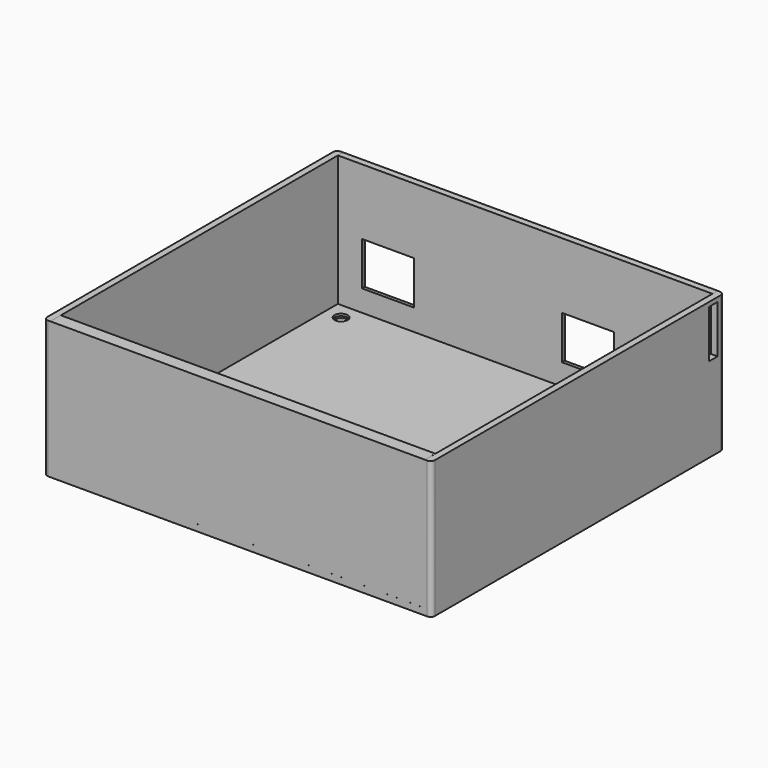
from build123d import *

# Parameters (mm, degrees)
BOX_W            = 20
BOX_H            = 2.5
BOX_DEPTH        = 11
SKETCH005_W      = 12
SKETCH005_H      = 10
EXTRUDE008_DEPTH = 1.5
SKETCH002_W      = 84.01
SKETCH002_H      = 30
EXTRUDE002_DEPTH = 1.5
FILLET001_R      = 1
FILLET003_R      = 1
SKETCH003_W      = 84.01
SKETCH003_H      = 30
EXTRUDE007_DEPTH = 1.5
FILLET005_R      = 1
SKETCH001_W      = 89
SKETCH001_H      = 84
SKETCH001_R      = 1.524
EXTRUDE001_DEPTH = 1.5
FILLET_R         = 1
FILLET002_R      = 1
FILLET004_R      = 1
FILLET006_R      = 1
EXTRUDE004_DEPTH = 3
FILLET011_R      = 1
CHAMFER_SIZE     = 1
CHAMFER001_SIZE  = 1
CHAMFER002_SIZE  = 1
CHAMFER003_SIZE  = 1
FILLET016_R      = 1
FILLET017_R      = 1


with BuildPart() as box:
    # Box → Box (new body)
    with BuildSketch(Plane(origin=(134, 92, 18), x_dir=(1, 0, 0), z_dir=(0, 0, 1))):
        with Locations((10, 1.25)):
            Rectangle(BOX_W, BOX_H)
    extrude(amount=BOX_DEPTH)


with BuildPart() as extrude008:
    # Sketch005 → Extrude008 (new body)
    with BuildSketch(Plane.XZ):
        Polygon((48.658601, 30.00186), (134.672964, 30.001823), (134.673007, -0.086485), (48.658601, -0.081194), align=None)
        with Locations((60.167907, 9.918134)):
            Rectangle(SKETCH005_W, SKETCH005_H, mode=Mode.SUBTRACT)
        with Locations((106.097198, 9.915282)):
            Rectangle(SKETCH005_W, SKETCH005_H, mode=Mode.SUBTRACT)
    extrude(amount=EXTRUDE008_DEPTH)


with BuildPart() as extrude008_1:
    # Extrude008 placement: moved
    add(extrude008.part.moved(Location((0.009309, 96.402171, 0.006059))))


with BuildPart() as fillet003:
    # Sketch002 → Extrude002 (new body)
    with BuildSketch(Plane.YZ):
        with Locations((54.387171, 15)):
            Rectangle(SKETCH002_W, SKETCH002_H)
    extrude(amount=EXTRUDE002_DEPTH)


with BuildPart() as fillet003_1:
    # Extrude002 placement: moved
    add(fillet003.part.moved(Location((47.167907, 0.01, 0))))

    # Fillet001
    fillet001_edges = [fillet003_1.edges().sort_by_distance(p)[0] for p in [
        (47.167907, 96.402171, 15),
    ]]
    fillet(fillet001_edges, radius=FILLET001_R)

    # Fillet003
    fillet003_edges = [fillet003_1.edges().sort_by_distance(p)[0] for p in [
        (47.167907, 12.392171, 15),
    ]]
    fillet(fillet003_edges, radius=FILLET003_R)


with BuildPart() as fillet005:
    # Sketch003 → Extrude007 (new body)
    with BuildSketch(Plane.YZ):
        with Locations((54.387171, 15)):
            Rectangle(SKETCH003_W, SKETCH003_H)
    extrude(amount=EXTRUDE007_DEPTH)


with BuildPart() as fillet005_1:
    # Extrude007 placement: moved
    add(fillet005.part.moved(Location((134.667907, 0.01, 0))))

    # Fillet005
    fillet005_edges = [fillet005_1.edges().sort_by_distance(p)[0] for p in [
        (136.167907, 12.392171, 15),
    ]]
    fillet(fillet005_edges, radius=FILLET005_R)


with BuildPart() as fillet006:
    # Sketch001 → Extrude001 (new body)
    with BuildSketch(Plane.XY):
        with Locations((91.667907, 54.392171)):
            Rectangle(SKETCH001_W, SKETCH001_H)
        with Locations((52.453907, 91.106708)):
            Circle(SKETCH001_R, mode=Mode.SUBTRACT)
        with Locations((130.657907, 91.102171)):
            Circle(SKETCH001_R, mode=Mode.SUBTRACT)
        with Locations((130.707907, 17.767171)):
            Circle(SKETCH001_R, mode=Mode.SUBTRACT)
        with Locations((52.453907, 17.678171)):
            Circle(SKETCH001_R, mode=Mode.SUBTRACT)
    extrude(amount=-EXTRUDE001_DEPTH)

    # Fillet
    fillet_edges = [fillet006.edges().sort_by_distance(p)[0] for p in [
        (47.167907, 96.392171, -0.75),
    ]]
    fillet(fillet_edges, radius=FILLET_R)

    # Fillet002
    fillet002_edges = [fillet006.edges().sort_by_distance(p)[0] for p in [
        (47.167907, 12.392171, -0.75),
    ]]
    fillet(fillet002_edges, radius=FILLET002_R)

    # Fillet004
    fillet004_edges = [fillet006.edges().sort_by_distance(p)[0] for p in [
        (136.167907, 12.392171, -0.75),
    ]]
    fillet(fillet004_edges, radius=FILLET004_R)

    # Fillet006
    fillet006_edges = [fillet006.edges().sort_by_distance(p)[0] for p in [
        (136.167907, 96.392171, -0.75),
    ]]
    fillet(fillet006_edges, radius=FILLET006_R)


with BuildPart() as fillet017:
    # Sketch004 (on Sketch) → Extrude004 (new body)
    with BuildSketch(Plane.XZ):
        Polygon((48.658598, 30.00186), (134.672964, 30.001823), (134.672964, -0.003143), (48.658598, -0.006059), align=None)
    extrude(amount=EXTRUDE004_DEPTH)


with BuildPart() as fillet017_1:
    # Extrude004 placement: moved
    add(fillet017.part.moved(Location((0.009309, 15.392171, 0.006059))))

    # Fusion: union Extrude008, Fillet003, Fillet005, Fillet006
    add(extrude008_1.part)
    add(fillet003_1.part)
    add(fillet005_1.part)
    add(fillet006.part)

    # Fillet011
    fillet011_edges = [fillet017_1.edges().sort_by_distance(p)[0] for p in [
        (136.167907, 96.402171, 15),
    ]]
    fillet(fillet011_edges, radius=FILLET011_R)

    # Chamfer
    chamfer_edges = [fillet017_1.edges().sort_by_distance(p)[0] for p in [
        (50.929907, 17.678171, -1.5),
    ]]
    chamfer(chamfer_edges, length=CHAMFER_SIZE)

    # Chamfer001
    chamfer001_edges = [fillet017_1.edges().sort_by_distance(p)[0] for p in [
        (129.183907, 17.767171, -1.5),
    ]]
    chamfer(chamfer001_edges, length=CHAMFER001_SIZE)

    # Chamfer002
    chamfer002_edges = [fillet017_1.edges().sort_by_distance(p)[0] for p in [
        (129.133907, 91.102171, -1.5),
    ]]
    chamfer(chamfer002_edges, length=CHAMFER002_SIZE)

    # Chamfer003
    chamfer003_edges = [fillet017_1.edges().sort_by_distance(p)[0] for p in [
        (50.929907, 91.106708, -1.5),
    ]]
    chamfer(chamfer003_edges, length=CHAMFER003_SIZE)

    # Cut: cut Box
    add(box.part, mode=Mode.SUBTRACT)

    # Fillet016
    fillet016_edges = [fillet017_1.edges().sort_by_distance(p)[0] for p in [
        (106.106507, 96.402171, 14.921341),
        (100.106507, 96.402171, 9.921341),
        (106.106507, 96.402171, 4.921341),
        (112.106507, 96.402171, 9.921341),
    ]]
    fillet(fillet016_edges, radius=FILLET016_R)

    # Fillet017
    fillet017_edges = [fillet017_1.edges().sort_by_distance(p)[0] for p in [
        (60.177215, 96.402171, 14.924193),
        (54.177215, 96.402171, 9.924193),
        (60.177215, 96.402171, 4.924193),
        (66.177215, 96.402171, 9.924193),
    ]]
    fillet(fillet017_edges, radius=FILLET017_R)


solid = fillet017_1.part
